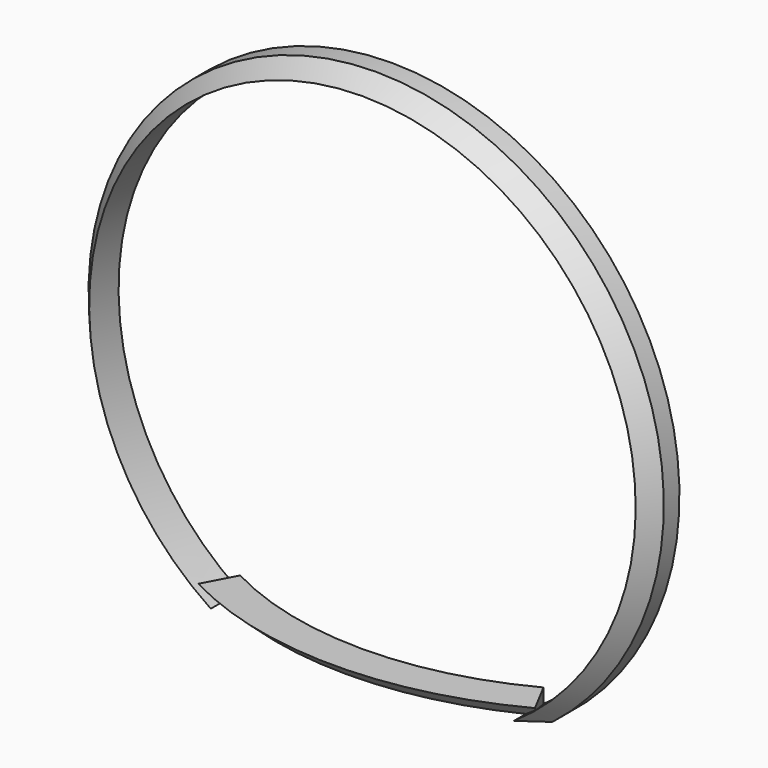
from build123d import *

# Parameters (mm, degrees)
F3_W     = 673.8248765469
F3_H     = 114.0088248253
F4_DEPTH = 253


with BuildPart() as f2:
    # F1 (on Right) → F2 (revolve)
    with BuildSketch(Plane.YZ):
        Polygon((0, 474.8347821527), (0, 499.8347821527), (-34.02, 499.8347821527), (-63.8654725708, 474.8347821527), align=None)
    revolve(axis=Axis((0, 1.7310532815, 0), (0, -1, 0)))

    # F3 (on Front) → F4 (cut)
    with BuildSketch(Plane.XZ):
        with Locations((0.930711627, -452.0044124126)):
            Rectangle(F3_W, F3_H)
    extrude(amount=F4_DEPTH, mode=Mode.SUBTRACT)

    # F8: sweep along a path in F6
    with BuildLine(Plane.XY.offset(-395)) as f8_path:
        ThreePointArc((263.5205311585, 0), (0, -65.2754158494), (-263.5205311585, 0))
    # F7 (on Right) → F8 (sweep)
    with BuildSketch(Plane.YZ):
        Polygon((-65.2754158494, -395), (-65.2754158494, -370), (-127.0850614031, -370), (-99.2954158494, -395), align=None)
    sweep(path=f8_path.line)


solid = f2.part
